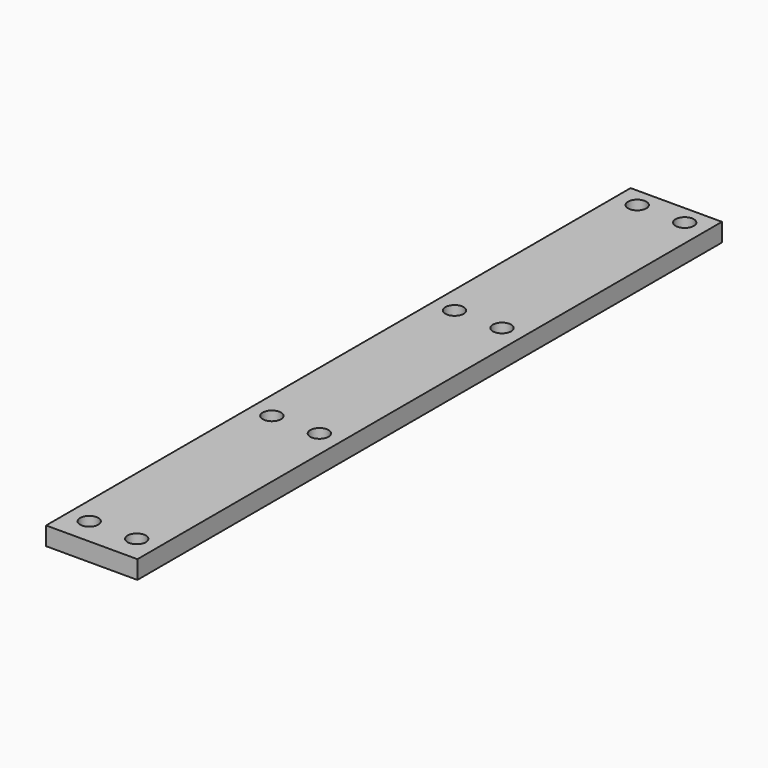
from build123d import *

# Parameters (mm, degrees)
F0_W     = 50
F0_H     = 400
F0_R     = 5
F1_DEPTH = 10


with BuildPart() as f1:
    # F0 (on Top) → F1 (new body)
    with BuildSketch(Plane.XY):
        with Locations((25, 200)):
            Rectangle(F0_W, F0_H)
        with Locations((12, 14.519223)):
            Circle(F0_R, mode=Mode.SUBTRACT)
        with Locations((12, 139.519223)):
            Circle(F0_R, mode=Mode.SUBTRACT)
        with Locations((38, 14.519223)):
            Circle(F0_R, mode=Mode.SUBTRACT)
        with Locations((38, 139.519223)):
            Circle(F0_R, mode=Mode.SUBTRACT)
        with Locations((12, 264.519223)):
            Circle(F0_R, mode=Mode.SUBTRACT)
        with Locations((12, 389.519223)):
            Circle(F0_R, mode=Mode.SUBTRACT)
        with Locations((38, 264.519223)):
            Circle(F0_R, mode=Mode.SUBTRACT)
        with Locations((38, 389.519223)):
            Circle(F0_R, mode=Mode.SUBTRACT)
    extrude(amount=F1_DEPTH)


solid = f1.part
